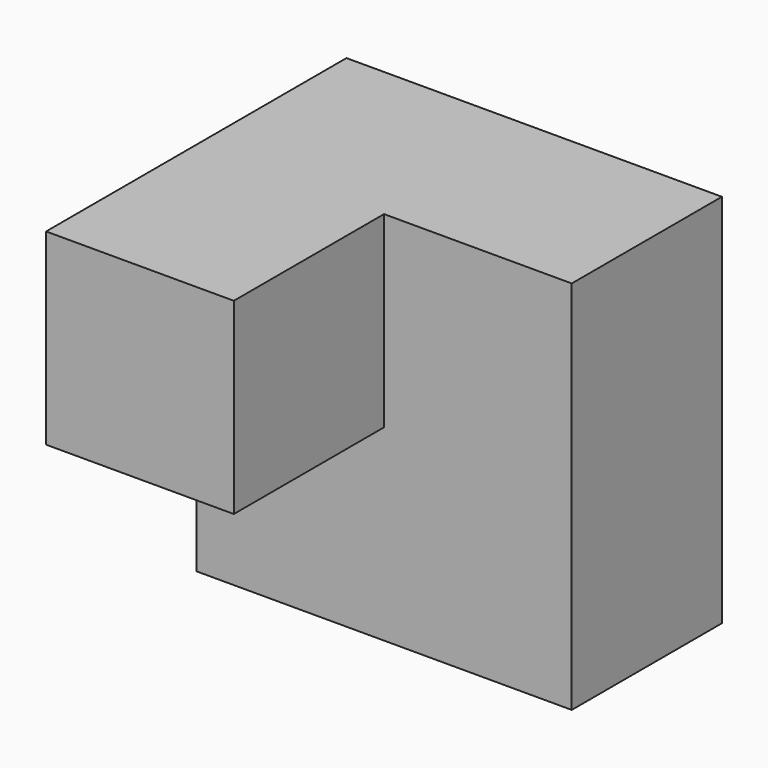
from build123d import *

# Parameters (mm, degrees)
F0_W      = 19.05
F0_H      = 19.05
F1_DEPTH  = 19.05
F2_W      = 38.1
F2_H      = 19.05
F3_DEPTH  = 38.1
F1_FACE_W = 19.05
F1_FACE_H = 19.05
F4_DEPTH  = 19.05
F5_W      = 19.05
F5_H      = 19.05
F6_DEPTH  = 25.4


with BuildPart() as f1:
    # F0 (on Right) → F1 (new body)
    with BuildSketch(Plane.YZ):
        Polygon((-19.05, 0), (0, 0), (0, 38.1), (-19.05, 38.1), (-19.05, 19.05), align=None)
        with Locations((-28.575, 28.575)):
            Rectangle(F0_W, F0_H)
    extrude(amount=-F1_DEPTH)

    # F2 (on Right) → F3 (join)
    with BuildSketch(Plane.YZ):
        with Locations((-19.05, 28.575)):
            Rectangle(F2_W, F2_H)
    extrude(amount=-F3_DEPTH)

    # F1_face (on face) → F4 (join)
    with BuildSketch(Plane(origin=(-19.05, -9.525, 9.525), x_dir=(0, 1, 0), z_dir=(-1, 0, 0))):
        Rectangle(F1_FACE_W, F1_FACE_H)
    extrude(amount=F4_DEPTH)

    # F5 (on face) → F6 (cut)
    with BuildSketch(Plane.XY.offset(38.1)):
        with Locations((-9.525, -28.575)):
            Rectangle(F5_W, F5_H)
    extrude(amount=-F6_DEPTH, mode=Mode.SUBTRACT)


solid = f1.part
